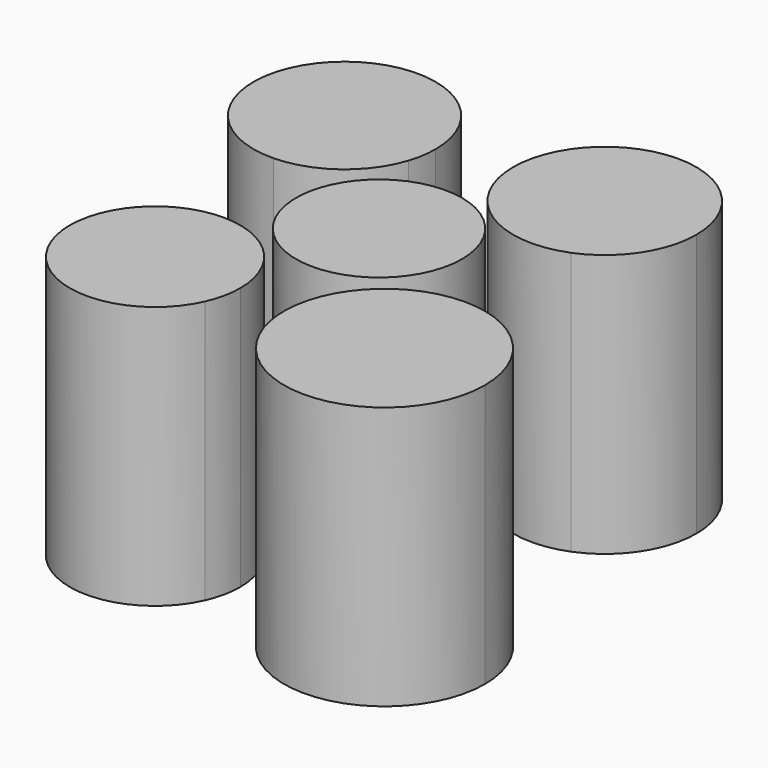
from build123d import *

# Parameters (mm, degrees)
F0_R     = 8.008553
F2_DEPTH = 25.4


with BuildPart() as f2:
    # F0 (on Top) → F2 (new body)
    with BuildSketch(Plane.XY):
        with BuildLine():
            ThreePointArc((-13.367748, 3.984637), (-8.312192, 5.709303), (-5.186786, 10.041156))
            ThreePointArc((-5.186786, 10.041156), (-4.859822, 11.392638), (-4.749918, 12.778758))
            ThreePointArc((-4.749918, 12.778758), (-19.82815, 18.935127), (-13.367748, 3.984637))
        make_face()
        with BuildLine():
            ThreePointArc((13.781839, 5.940213), (17.807706, 9.194119), (19.32268, 14.143903))
            ThreePointArc((19.32268, 14.143903), (8.857815, 22.837567), (2.230051, 10.956239))
            ThreePointArc((2.230051, 10.956239), (6.956804, 6.032079), (13.781839, 5.940213))
        make_face()
        with BuildLine():
            ThreePointArc((22.220862, -14.997891), (19.728442, -8.50851), (13.5328, -5.356013))
            ThreePointArc((13.5328, -5.356013), (5.326167, -8.507008), (3.040421, -16.995408))
            ThreePointArc((3.040421, -16.995408), (13.530788, -24.639978), (22.220862, -14.997891))
        make_face()
        with BuildLine():
            ThreePointArc((-2.078872, -14.141371), (-5.55837, -7.422916), (-13.053286, -6.388127))
            ThreePointArc((-13.053286, -6.388127), (-16.347493, -19.722873), (-2.793695, -17.495364))
            ThreePointArc((-2.793695, -17.495364), (-2.259562, -15.856031), (-2.078872, -14.141371))
        make_face()
        Circle(F0_R)
    extrude(amount=F2_DEPTH)


solid = f2.part
